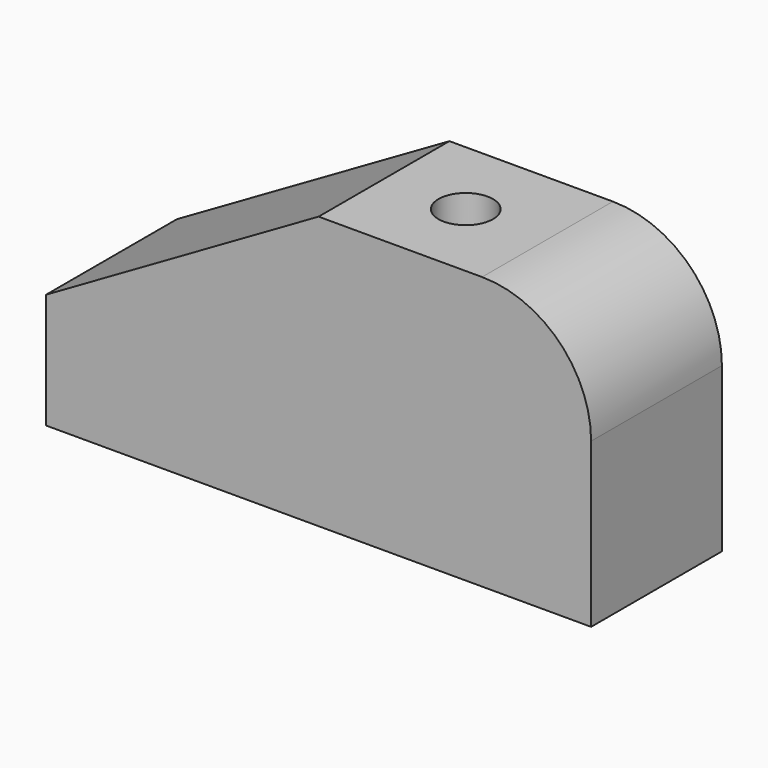
from build123d import *

# Parameters (mm, degrees)
PAD_DEPTH    = 30
SKETCH001_R  = 5
POCKET_DEPTH = 50.001


with BuildPart() as part:
    # Sketch → Pad (new body)
    with BuildSketch(Plane.XZ):
        with BuildLine():
            Line((0, 0), (100, 0))
            Line((100, 0), (100, 30))
            ThreePointArc((100, 30), (94.142136, 44.142136), (80, 50))
            Line((50, 50), (80, 50))
            Line((50, 50), (0, 21.132487))
            Line((0, 0), (0, 21.132487))
        make_face()
    extrude(amount=-PAD_DEPTH)

    # Sketch001 (on Face6 of Pad) → Pocket (cut, through all)
    with BuildSketch(Plane(origin=(0, 0, 50), x_dir=(-1, 0, 0), z_dir=(0, 0, 1))):
        with Locations((-65, -15)):
            Circle(SKETCH001_R)
    extrude(amount=-POCKET_DEPTH, mode=Mode.SUBTRACT)


solid = part.part
